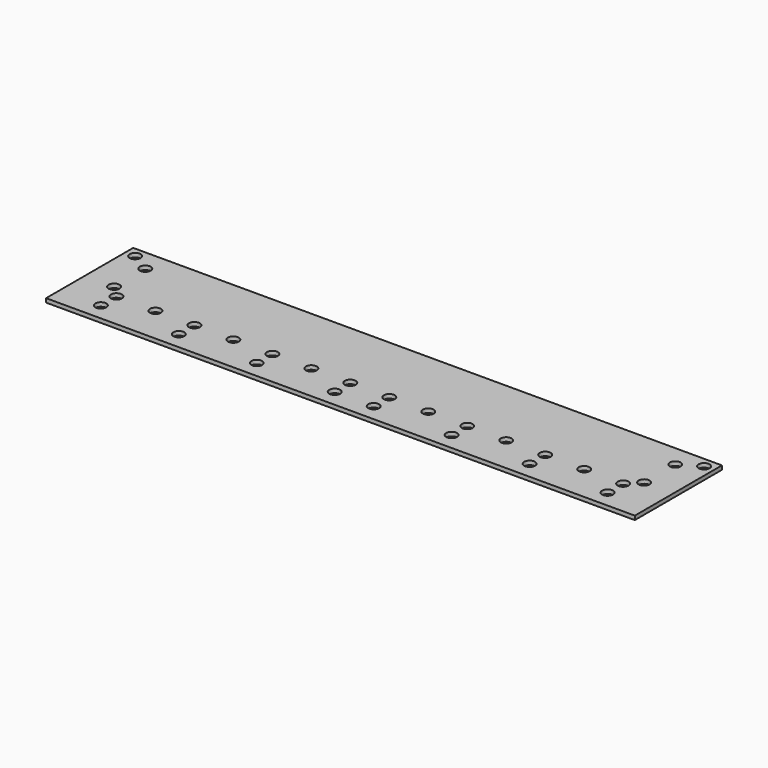
from build123d import *

# Parameters (mm, degrees)
F0_W           = 755.396
F0_H           = 139.7
F1_DEPTH       = 5.08
F3_D           = 8.5
F3_CBORE_D     = 14
F3_CBORE_DEPTH = 8.5


with BuildPart() as f1:
    # F0 (on Top) → F1 (new body)
    with BuildSketch(Plane.XY):
        with Locations((378.988484, 69.85)):
            Rectangle(F0_W, F0_H)
    extrude(amount=F1_DEPTH)

    # F3 (through all)
    with Locations(Plane.XY.offset(5.08)):
        with Locations((13.990484, 127), (38.984084, 111.9886), (38.984084, 61.976), (53.995484, 46.9646), (53.995484, 21.971), (104.008084, 46.9646), (154.020684, 21.971), (154.020684, 46.9646), (204.033284, 46.9646), (254.045884, 21.971), (254.045884, 46.9646), (304.058484, 46.9646), (354.071084, 46.9646), (354.071084, 21.971), (404.083684, 21.971), (404.083684, 46.9646), (454.096284, 46.9646), (504.108884, 21.971), (504.108884, 46.9646), (554.121484, 46.9646), (604.134084, 46.9646), (604.134084, 21.971), (743.986484, 127), (718.992884, 111.9886), (718.992884, 61.976), (704.159284, 46.9646), (704.159284, 21.971), (654.146684, 46.9646)):
            CounterBoreHole(F3_D / 2, F3_CBORE_D / 2, F3_CBORE_DEPTH)


solid = f1.part
